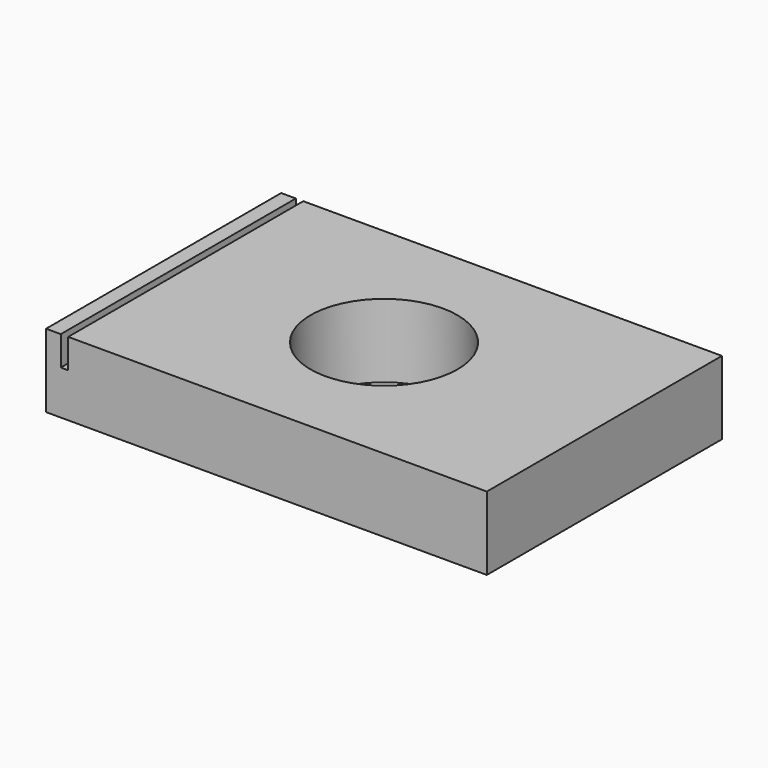
from build123d import *

# Parameters (mm, degrees)
F0_W     = 76.2
F0_H     = 50.8
F1_DEPTH = 12.7
F2_R     = 12.7
F3_DEPTH = 25.4
F4_W     = 1.281619072
F4_H     = 0.3408930868
F4_H_2   = 4.7445660457
F5_DEPTH = 50.8508


with BuildPart() as f1:
    # F0 (on Top) → F1 (new body)
    with BuildSketch(Plane.XY):
        Rectangle(F0_W, F0_H)
        Rectangle(F0_W, F0_H)
    extrude(amount=F1_DEPTH)

    # F2 (on face) → F3 (cut)
    with BuildSketch(Plane.XY.offset(12.7)):
        Circle(F2_R)
    extrude(amount=-F3_DEPTH, mode=Mode.SUBTRACT)

    # F4 (on face) → F5 (cut)
    with BuildSketch(Plane.XZ.offset(25.4)):
        with Locations((-34.9193550646, 12.5295534566)):
            Rectangle(F4_W, F4_H)
        with Locations((-34.9193550646, 9.9868238904)):
            Rectangle(F4_W, F4_H_2)
    extrude(amount=-F5_DEPTH, mode=Mode.SUBTRACT)


solid = f1.part
